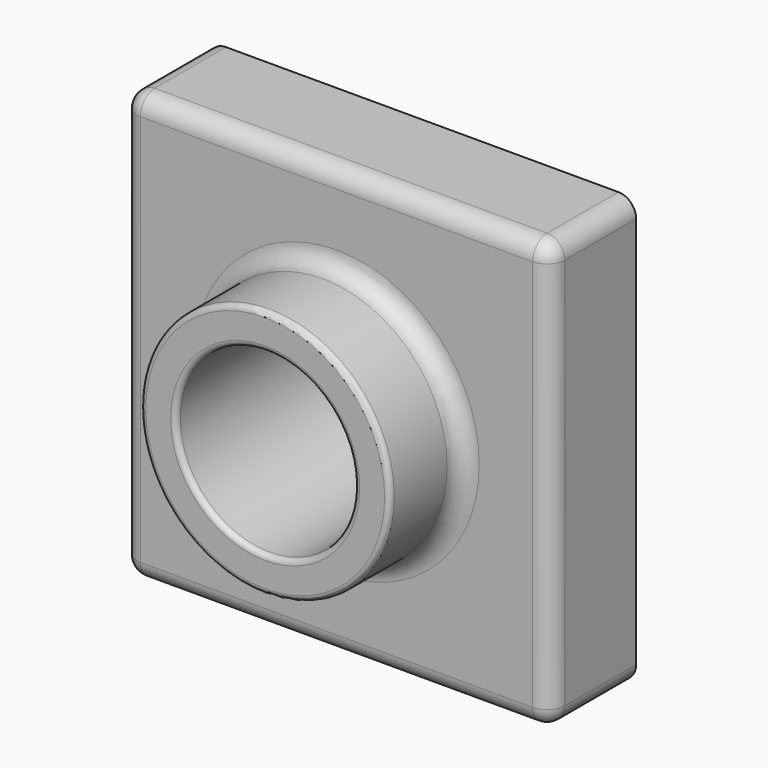
from build123d import *

# Parameters (mm, degrees)
F0_W     = 120
F0_H     = 120
F1_DEPTH = 30
F2_R     = 35
F3_DEPTH = 25
F4_R     = 25
F5_DEPTH = 55.001
F6_R     = 1.5
F7_R     = 5
F8_T     = -2


with BuildPart() as f1:
    # F0 (on Front) → F1 (new body)
    with BuildSketch(Plane.XZ):
        with Locations((60, 60)):
            Rectangle(F0_W, F0_H)
    extrude(amount=F1_DEPTH)

    # F2 (on face) → F3 (join)
    with BuildSketch(Plane.XZ.offset(30)):
        with Locations((60, 60)):
            Circle(F2_R)
    extrude(amount=F3_DEPTH)

    # F4 (on face) → F5 (cut, through all)
    with BuildSketch(Plane.XZ.offset(55)):
        with Locations((60, 60)):
            Circle(F4_R)
    extrude(amount=-F5_DEPTH, mode=Mode.SUBTRACT)

    # F6
    f6_edges = [f1.edges().sort_by_distance(p)[0] for p in [
        (35, -55, 60),
        (25, -55, 60),
    ]]
    fillet(f6_edges, radius=F6_R)

    # F7
    f7_edges = [f1.edges().sort_by_distance(p)[0] for p in [
        (25, -30, 60),
        (120, -15, 120),
        (120, -30, 60),
        (60, -30, 120),
        (0, -15, 120),
        (120, -15, 0),
        (60, -30, 0),
        (0, -15, 0),
        (0, -30, 60),
    ]]
    fillet(f7_edges, radius=F7_R)

    # F8
    f8_openings = [f1.faces().sort_by_distance(p)[0] for p in [
        (1.697056, 0, 60),
    ]]
    offset(amount=F8_T, openings=f8_openings)


solid = f1.part
